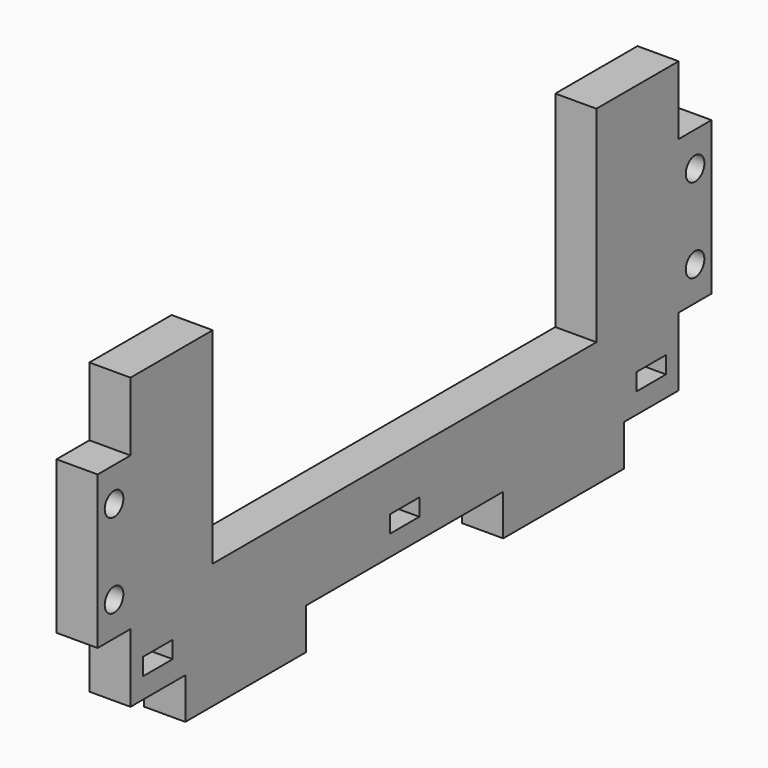
from build123d import *

# Parameters (mm, degrees)
PAD_DEPTH       = 6
SKETCH001_W     = 5.4
SKETCH001_H     = 2.5
SKETCH001_W_2   = 2.7
POCKET_DEPTH    = 250.237688
SKETCH002_R     = 1.7
POCKET001_DEPTH = 250.237688


with BuildPart() as part:
    # Sketch → Pad (new body)
    with BuildSketch(Plane.YZ):
        Polygon((-50, 30), (-35, 30), (-35, 0), (35, 0), (35, 30), (50, 30), (50, 20), (56, 20), (56, -2.3), (50, -2.3), (50, -12.3), (40, -12.3), (40, -18.3), (18, -18.3), (18, -12.3), (-18, -12.3), (-18, -18.3), (-40, -18.3), (-40, -12.3), (-50, -12.3), (-50, -2.3), (-56, -2.3), (-56, 20), (-50, 20), align=None)
    extrude(amount=PAD_DEPTH)

    # Sketch001 (on Face25 of Pad) → Pocket (cut, through all)
    with BuildSketch(Plane(origin=(0, 0, 0), x_dir=(0, 1, 0), z_dir=(-1, 0, 0))):
        with Locations((45, 8.05)):
            Rectangle(SKETCH001_W, SKETCH001_H)
        with Locations((1.35, 8.05)):
            Rectangle(SKETCH001_W_2, SKETCH001_H)
    pocket = extrude(amount=-POCKET_DEPTH, mode=Mode.SUBTRACT)

    # Mirrored: Pocket across Sketch001 V_Axis
    add(pocket.mirror(Plane(origin=(0, 0, 0), x_dir=(-1, 0, 0), z_dir=(0, 1, 0))), mode=Mode.SUBTRACT)

    # Sketch002 (on Face4 of Mirrored) → Pocket001 (cut, through all)
    with BuildSketch(Plane(origin=(0, 0, 0), x_dir=(0, 1, 0), z_dir=(-1, 0, 0))):
        with Locations((53, -15)):
            Circle(SKETCH002_R)
        with Locations((53, -2.7)):
            Circle(SKETCH002_R)
    pocket001 = extrude(amount=-POCKET001_DEPTH, mode=Mode.SUBTRACT)

    # Mirrored001: Pocket001 across Sketch002 V_Axis
    add(pocket001.mirror(Plane(origin=(0, 0, 0), x_dir=(-1, 0, 0), z_dir=(0, 1, 0))), mode=Mode.SUBTRACT)


solid = part.part
